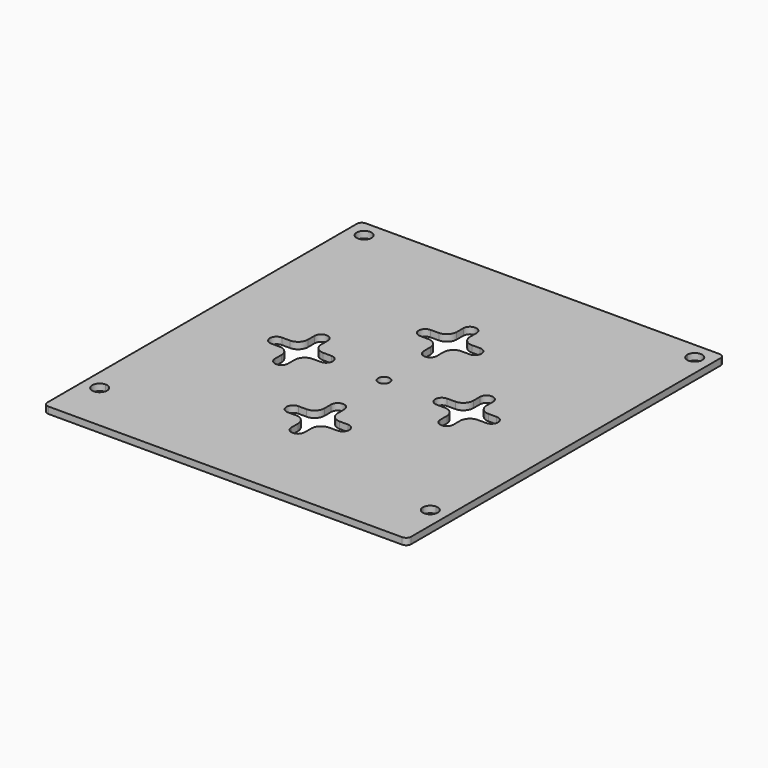
from build123d import *

# Parameters (mm, degrees)
F0_W     = 110
F0_H     = 120
F1_DEPTH = 2
F2_R     = 1.5
F3_W     = 2
F3_H     = 2
F3_R     = 1.75
F4_DEPTH = 2
F5_R     = 3


with BuildPart() as f1:
    # F0 (on Top) → F1 (new body)
    with BuildSketch(Plane.XY):
        Rectangle(F0_W, F0_H)
        with BuildLine():
            ThreePointArc((-50, 52.75), (-51.5909902577, 56.5909902577), (-47.75, 55))
            Line((-47.75, 55), (47.75, 55))
            ThreePointArc((47.75, 55), (50, 57.25), (52.25, 55))
            ThreePointArc((52.25, 55), (51.5909902577, 53.4090097423), (50, 52.75))
            Line((50, 52.75), (50, -42.75))
            ThreePointArc((50, -42.75), (51.5909902577, -43.4090097423), (52.25, -45))
            ThreePointArc((52.25, -45), (50, -47.25), (47.75, -45))
            Line((47.75, -45), (-47.75, -45))
            ThreePointArc((-47.75, -45), (-51.5909902577, -46.5909902577), (-50, -42.75))
            Line((-50, -42.75), (-50, 52.75))
        make_face(mode=Mode.SUBTRACT)
        with BuildLine():
            Line((47.75, 55), (-47.75, 55))
            ThreePointArc((-47.75, 55), (-48.4090097423, 53.4090097423), (-50, 52.75))
            Line((-50, 52.75), (-50, -42.75))
            ThreePointArc((-50, -42.75), (-48.4090097423, -43.4090097423), (-47.75, -45))
            Line((-47.75, -45), (47.75, -45))
            ThreePointArc((47.75, -45), (48.4090097423, -43.4090097423), (50, -42.75))
            Line((50, -42.75), (50, 52.75))
            ThreePointArc((50, 52.75), (48.4090097423, 53.4090097423), (47.75, 55))
        make_face()
    extrude(amount=F1_DEPTH)

    # F2
    f2_edges = [f1.edges().sort_by_distance(p)[0] for p in [
        (55, 60, 1),
        (55, -60, 1),
        (-55, -60, 1),
        (-55, 60, 1),
    ]]
    fillet(f2_edges, radius=F2_R)

    # F3 (on face) → F4 (cut)
    with BuildSketch(Plane.XY.offset(2)):
        with Locations((-24, 1)):
            Rectangle(F3_W, F3_H)
        with Locations((-26, 1)):
            Rectangle(F3_W, F3_H)
        with BuildLine():
            Line((-27, 2), (-25, 2))
            Line((-25, 2), (-23, 2))
            Line((-23, 2), (-23, 7.5))
            ThreePointArc((-23, 7.5), (-25, 9.5), (-27, 7.5))
            Line((-27, 7.5), (-27, 2))
        make_face()
        with Locations((-24, -1)):
            Rectangle(F3_W, F3_H)
        with Locations((-26, -1)):
            Rectangle(F3_W, F3_H)
        with BuildLine():
            Line((-27, 0), (-27, 2))
            Line((-27, 2), (-32.5, 2))
            ThreePointArc((-32.5, 2), (-34.5, 0), (-32.5, -2))
            Line((-32.5, -2), (-27, -2))
            Line((-27, -2), (-27, 0))
        make_face()
        with BuildLine():
            Line((-17.5, 2), (-23, 2))
            Line((-23, 2), (-23, 0))
            Line((-23, 0), (-23, -2))
            Line((-23, -2), (-17.5, -2))
            ThreePointArc((-17.5, -2), (-15.5, 0), (-17.5, 2))
        make_face()
        with BuildLine():
            Line((-23, -2), (-25, -2))
            Line((-25, -2), (-27, -2))
            Line((-27, -2), (-27, -7.5))
            ThreePointArc((-27, -7.5), (-25, -9.5), (-23, -7.5))
            Line((-23, -7.5), (-23, -2))
        make_face()
        Circle(F3_R)
        with BuildLine():
            Line((23, 2), (17.5, 2))
            ThreePointArc((17.5, 2), (15.5, 0), (17.5, -2))
            Line((17.5, -2), (23, -2))
            Line((23, -2), (23, 0))
            Line((23, 0), (23, 2))
        make_face()
        with BuildLine():
            Line((23, 7.5), (23, 2))
            Line((23, 2), (25, 2))
            Line((25, 2), (27, 2))
            Line((27, 2), (27, 7.5))
            ThreePointArc((27, 7.5), (25, 9.5), (23, 7.5))
        make_face()
        with Locations((24, 1)):
            Rectangle(F3_W, F3_H)
        with Locations((26, 1)):
            Rectangle(F3_W, F3_H)
        with Locations((24, -1)):
            Rectangle(F3_W, F3_H)
        with BuildLine():
            Line((25, -2), (23, -2))
            Line((23, -2), (23, -7.5))
            ThreePointArc((23, -7.5), (25, -9.5), (27, -7.5))
            Line((27, -7.5), (27, -2))
            Line((27, -2), (25, -2))
        make_face()
        with BuildLine():
            Line((32.5, 2), (27, 2))
            Line((27, 2), (27, 0))
            Line((27, 0), (27, -2))
            Line((27, -2), (32.5, -2))
            ThreePointArc((32.5, -2), (34.5, 0), (32.5, 2))
        make_face()
        with Locations((26, -1)):
            Rectangle(F3_W, F3_H)
        with Locations((1, 26)):
            Rectangle(F3_W, F3_H)
        with Locations((-1, 26)):
            Rectangle(F3_W, F3_H)
        with BuildLine():
            Line((-2, 27), (0, 27))
            Line((0, 27), (2, 27))
            Line((2, 27), (2, 32.5))
            ThreePointArc((2, 32.5), (0, 34.5), (-2, 32.5))
            Line((-2, 32.5), (-2, 27))
        make_face()
        with Locations((1, 24)):
            Rectangle(F3_W, F3_H)
        with Locations((-1, 24)):
            Rectangle(F3_W, F3_H)
        with BuildLine():
            Line((-2, 25), (-2, 27))
            Line((-2, 27), (-7.5, 27))
            ThreePointArc((-7.5, 27), (-9.5, 25), (-7.5, 23))
            Line((-7.5, 23), (-2, 23))
            Line((-2, 23), (-2, 25))
        make_face()
        with BuildLine():
            Line((7.5, 27), (2, 27))
            Line((2, 27), (2, 25))
            Line((2, 25), (2, 23))
            Line((2, 23), (7.5, 23))
            ThreePointArc((7.5, 23), (9.5, 25), (7.5, 27))
        make_face()
        with BuildLine():
            Line((2, 23), (0, 23))
            Line((0, 23), (-2, 23))
            Line((-2, 23), (-2, 17.5))
            ThreePointArc((-2, 17.5), (0, 15.5), (2, 17.5))
            Line((2, 17.5), (2, 23))
        make_face()
        with BuildLine():
            ThreePointArc((-2, -32.5), (0, -34.5), (2, -32.5))
            Line((2, -32.5), (2, -27))
            Line((2, -27), (0, -27))
            Line((0, -27), (-2, -27))
            Line((-2, -27), (-2, -32.5))
        make_face()
        with Locations((1, -26)):
            Rectangle(F3_W, F3_H)
        with BuildLine():
            Line((2, -25), (2, -27))
            Line((2, -27), (7.5, -27))
            ThreePointArc((7.5, -27), (9.5, -25), (7.5, -23))
            Line((7.5, -23), (2, -23))
            Line((2, -23), (2, -25))
        make_face()
        with Locations((-1, -26)):
            Rectangle(F3_W, F3_H)
        with BuildLine():
            Line((-7.5, -27), (-2, -27))
            Line((-2, -27), (-2, -25))
            Line((-2, -25), (-2, -23))
            Line((-2, -23), (-7.5, -23))
            ThreePointArc((-7.5, -23), (-9.5, -25), (-7.5, -27))
        make_face()
        with Locations((1, -24)):
            Rectangle(F3_W, F3_H)
        with Locations((-1, -24)):
            Rectangle(F3_W, F3_H)
        with BuildLine():
            Line((0, -23), (2, -23))
            Line((2, -23), (2, -17.5))
            ThreePointArc((2, -17.5), (0, -15.5), (-2, -17.5))
            Line((-2, -17.5), (-2, -23))
            Line((-2, -23), (0, -23))
        make_face()
    extrude(amount=-F4_DEPTH, mode=Mode.SUBTRACT)

    # F5
    f5_edges = [f1.edges().sort_by_distance(p)[0] for p in [
        (-23, -2, 1),
        (-23, 2, 1),
        (-27, -2, 1),
        (-27, 2, 1),
        (23, 2, 1),
        (23, -2, 1),
        (27, 2, 1),
        (27, -2, 1),
        (-2, 27, 1),
        (2, 27, 1),
        (2, 23, 1),
        (-2, 23, 1),
        (-2, -23, 1),
        (-2, -27, 1),
        (2, -27, 1),
        (2, -23, 1),
    ]]
    fillet(f5_edges, radius=F5_R)


solid = f1.part
